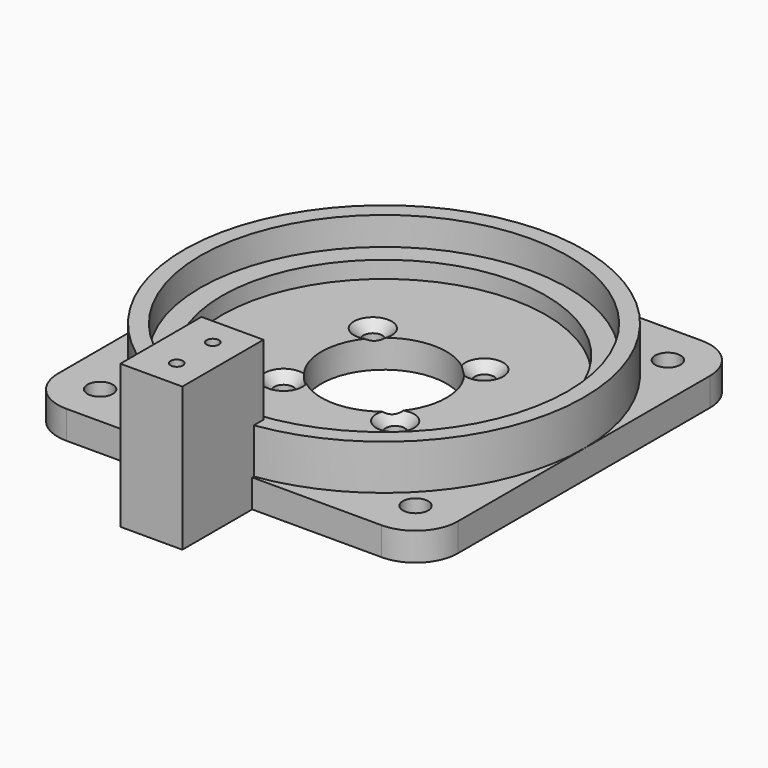
from build123d import *

# Parameters (mm, degrees)
SKETCH004_R         = 2.25
SKETCH004_R_2       = 11.1
SKETCH004_R_3       = 1.65
PAD005_DEPTH        = 5
SKETCH005_R         = 35.5
SKETCH005_R_2       = 32.6
PAD006_DEPTH        = 8
SKETCH070_R         = 32.6
SKETCH070_R_2       = 28.75
PAD045_DEPTH        = 3
SKETCH071_W         = 11
SKETCH071_H         = 18
SKETCH071_R         = 1.0922
PAD046_DEPTH        = 25.5
HOLE002_D           = 3.4
HOLE002_CSINK_D     = 6.7
HOLE002_CSINK_ANGLE = 90


with BuildPart() as part:
    # Sketch004 → Pad005 (new body)
    with BuildSketch(Plane.XY):
        with BuildLine():
            Line((-28, 35.5), (28, 35.5))
            ThreePointArc((35.5, 28), (33.303301, 33.303301), (28, 35.5))
            Line((35.5, 28), (35.5, -28))
            ThreePointArc((28, -35.5), (33.303301, -33.303301), (35.5, -28))
            Line((28, -35.5), (-28, -35.5))
            ThreePointArc((-35.5, -28), (-33.303301, -33.303301), (-28, -35.5))
            Line((-35.5, -28), (-35.5, 28))
            ThreePointArc((-28, 35.5), (-33.303301, 33.303301), (-35.5, 28))
        make_face()
        with Locations((-28, 28)):
            Circle(SKETCH004_R, mode=Mode.SUBTRACT)
        with Locations((28, 28)):
            Circle(SKETCH004_R, mode=Mode.SUBTRACT)
        with Locations((28, -28)):
            Circle(SKETCH004_R, mode=Mode.SUBTRACT)
        with Locations((-28, -28)):
            Circle(SKETCH004_R, mode=Mode.SUBTRACT)
        Circle(SKETCH004_R_2, mode=Mode.SUBTRACT)
        with Locations((-9.899495, 9.899495)):
            Circle(SKETCH004_R_3, mode=Mode.SUBTRACT)
        with Locations((9.899495, 9.899495)):
            Circle(SKETCH004_R_3, mode=Mode.SUBTRACT)
        with Locations((9.899495, -9.899495)):
            Circle(SKETCH004_R_3, mode=Mode.SUBTRACT)
        with Locations((-9.899495, -9.899495)):
            Circle(SKETCH004_R_3, mode=Mode.SUBTRACT)
    extrude(amount=PAD005_DEPTH)

    # Sketch005 → Pad006 (join)
    with BuildSketch(Plane.XY.offset(5)):
        Circle(SKETCH005_R)
        Circle(SKETCH005_R_2, mode=Mode.SUBTRACT)
    extrude(amount=PAD006_DEPTH)

    # Sketch070 → Pad045 (join)
    with BuildSketch(Plane.XY.offset(5)):
        Circle(SKETCH070_R)
        Circle(SKETCH070_R_2, mode=Mode.SUBTRACT)
    extrude(amount=PAD045_DEPTH)

    # Sketch071 → Pad046 (join)
    with BuildSketch(Plane.XY):
        with Locations((-0.5, -42)):
            Rectangle(SKETCH071_W, SKETCH071_H)
        with Locations((0, -38)):
            Circle(SKETCH071_R, mode=Mode.SUBTRACT)
        with Locations((0, -46)):
            Circle(SKETCH071_R, mode=Mode.SUBTRACT)
    extrude(amount=PAD046_DEPTH)

    # Hole002 (through all)
    with Locations(Plane.XY.offset(5)):
        with Locations((-9.899495, 9.899495), (9.899495, 9.899495), (9.899495, -9.899495), (-9.899495, -9.899495)):
            CounterSinkHole(HOLE002_D / 2, HOLE002_CSINK_D / 2, counter_sink_angle=HOLE002_CSINK_ANGLE)


solid = part.part
